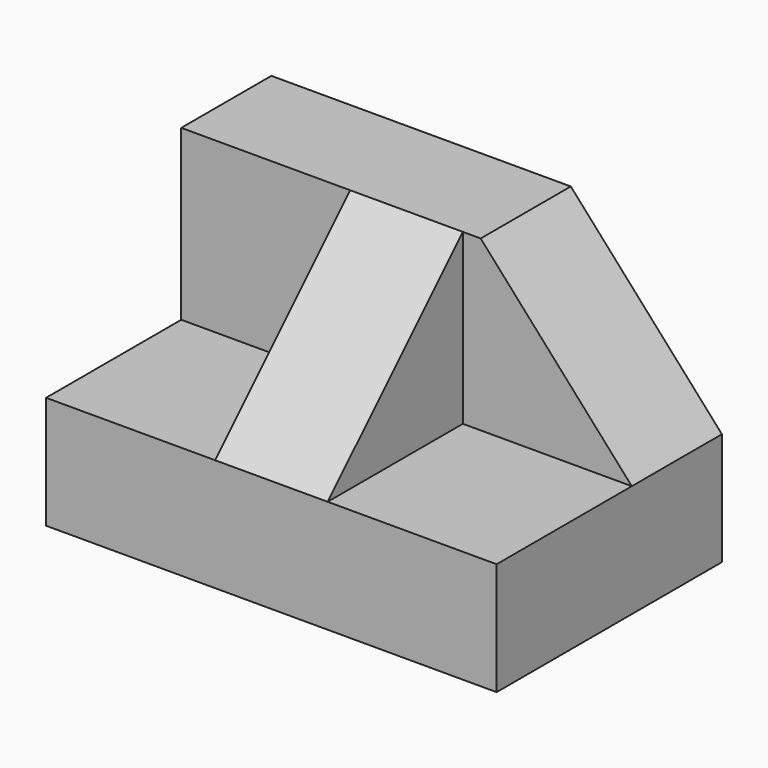
from build123d import *

# Parameters (mm, degrees)
F1_DEPTH = 50.8
F3_DEPTH = 12.7
F4_W     = 12.7
F4_H     = 19.05
F5_DEPTH = 19.05
F7_DEPTH = 12.7


with BuildPart() as f1:
    # F0 (on Right) → F1 (new body)
    with BuildSketch(Plane.YZ):
        Polygon((0, 12.7), (0, 0), (31.75, 0), (31.75, 31.75), (19.05, 31.75), (19.05, 12.7), align=None)
    extrude(amount=F1_DEPTH)

    # F2 (on face) → F3 (cut)
    with BuildSketch(Plane.XZ.offset(-19.05)):
        Polygon((50.8, 31.75), (33.761162, 31.75), (50.8, 12.7), align=None)
    extrude(amount=-F3_DEPTH, mode=Mode.SUBTRACT)

    # F4 (on face) → F5 (join)
    with BuildSketch(Plane.XZ.offset(-19.05)):
        with Locations((25.4, 22.225)):
            Rectangle(F4_W, F4_H)
    extrude(amount=F5_DEPTH)

    # F6 (on face) → F7 (cut)
    with BuildSketch(Plane.YZ.offset(31.75)):
        Polygon((0, 12.7), (19.05, 31.75), (0, 31.75), align=None)
    extrude(amount=-F7_DEPTH, mode=Mode.SUBTRACT)


solid = f1.part
